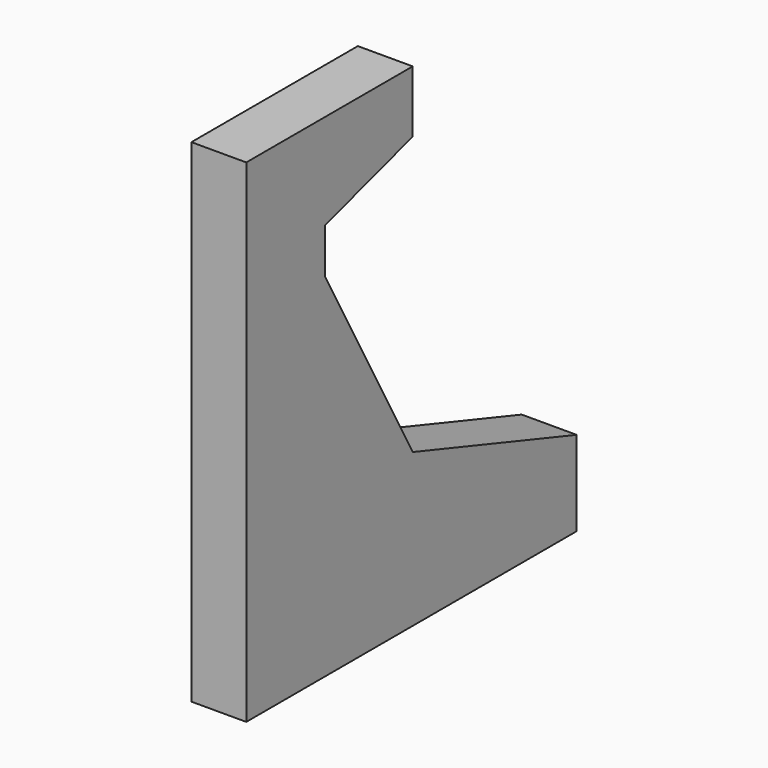
from build123d import *

# Parameters (mm, degrees)
F1_DEPTH = 10


with BuildPart() as f1:
    # F0 (on Right) → F1 (new body)
    with BuildSketch(Plane.YZ):
        Polygon((0, 41.723594), (-37.904501, 41.723594), (-37.904501, -48.025098), (37.331637, -48.025098), (37.331637, -32.557767), (0, -20.145718), (-19.954761, 16.100614), (-19.954761, 24.34672), (0, 30.457268), align=None)
    extrude(amount=F1_DEPTH)


solid = f1.part
